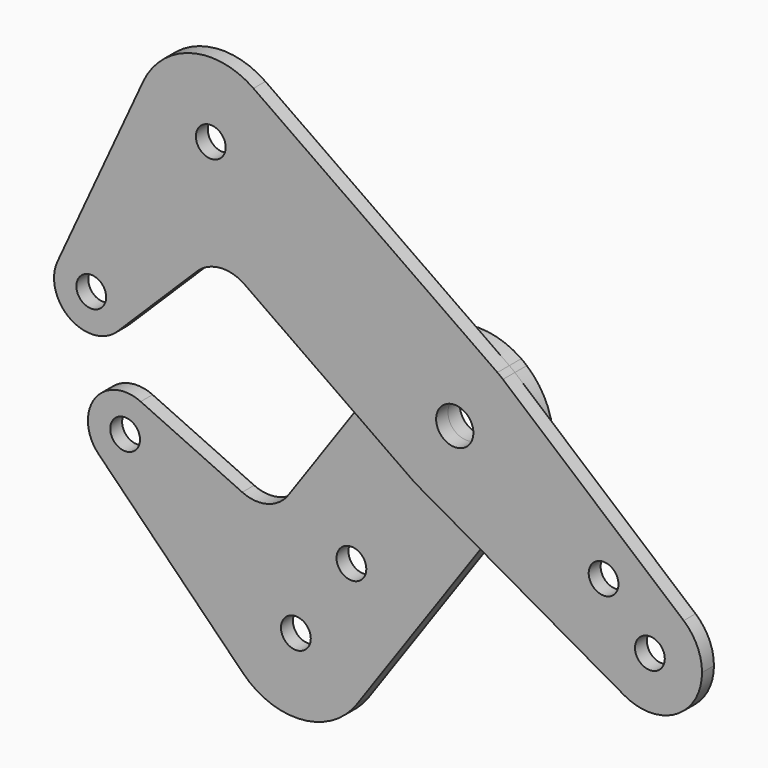
from build123d import *

# Parameters (mm, degrees)
F0_R     = 3.175
F0_R_2   = 3.9751
F1_DEPTH = 3.175
F2_DEPTH = 3.175


with BuildPart() as f1:
    # F0 (on Front) → F1 (new body)
    with BuildSketch(Plane.XZ):
        with BuildLine():
            ThreePointArc((-84.7225957339, 3.3175070304), (-75.813562918, 7.753739787), (-69.5741281599, 0))
            ThreePointArc((-69.5741281599, 0), (-70.1857405485, -3.0553685466), (-71.9263239282, -5.6398832336))
            Line((-71.9263239282, -5.6398832336), (-54.9834726478, 11.1390065117))
            ThreePointArc((-54.9834726478, 11.1390065117), (-50.0634331266, 13.4116607243), (-44.8300915991, 12.0031570794))
            Line((-44.8300915991, 12.0031570794), (-22.109021455, -3.9015920215))
            Line((-22.109021455, -3.9015920215), (-13.0053067382, 9.1037147168))
            ThreePointArc((-13.0053067382, 9.1037147168), (-2.7588421758, 15.6334389962), (9.1037147168, 13.0053067382))
            Line((9.1037147168, 13.0053067382), (-42.9175122362, 49.4201656053))
            ThreePointArc((-42.9175122362, 49.4201656053), (-37.940440467, 43.7460986623), (-36.146226953, 36.4148588671))
            ThreePointArc((-36.146226953, 36.4148588671), (-55.4173574367, 20.9073792931), (-66.443162101, 43.0498729278))
            Line((-66.443162101, 43.0498729278), (-84.7225957339, 3.3175070304))
        make_face()
        with BuildLine():
            Line((48.8149887222, -20.6656985075), (10.2828672843, 12.094555197))
            ThreePointArc((10.2828672843, 12.094555197), (14.4093050342, 6.6623984743), (15.875, 0))
            ThreePointArc((15.875, 0), (15.1405889824, -4.772650235), (13.0053067382, -9.1037147168))
            Line((13.0053067382, -9.1037147168), (4.7185685764, -20.9419120908))
            Line((4.7185685764, -20.9419120908), (36.1259209119, -38.7929382364))
            ThreePointArc((36.1259209119, -38.7929382364), (32.5132668456, -22.7592867919), (48.8149887222, -20.6656985075))
        make_face()
        with Locations((31.7433526867, -18.3447654727)):
            Circle(F0_R, mode=Mode.SUBTRACT)
        with BuildLine():
            ThreePointArc((10.2828672843, 12.094555197), (9.7039815289, 12.5637720246), (9.1037147168, 13.0053067382))
            ThreePointArc((9.1037147168, 13.0053067382), (-2.7588421758, 15.6334389962), (-13.0053067382, 9.1037147168))
            ThreePointArc((-13.0053067382, 9.1037147168), (-15.6334389962, -2.7588421758), (-9.1037147168, -13.0053067382))
            ThreePointArc((-9.1037147168, -13.0053067382), (-8.4833893845, -13.4181865224), (-7.8443723578, -13.8015016325))
            ThreePointArc((-7.8443723578, -13.8015016325), (3.48942852, -15.4867528425), (13.0053067382, -9.1037147168))
            ThreePointArc((13.0053067382, -9.1037147168), (15.1405889824, -4.772650235), (15.875, 0))
            ThreePointArc((15.875, 0), (14.4093050342, 6.6623984743), (10.2828672843, 12.094555197))
        make_face()
        Circle(F0_R_2, mode=Mode.SUBTRACT)
        with BuildLine():
            ThreePointArc((13.0053067382, -9.1037147168), (3.48942852, -15.4867528425), (-7.8443723578, -13.8015016325))
            Line((-7.8443723578, -13.8015016325), (4.7185685764, -20.9419120908))
            Line((4.7185685764, -20.9419120908), (13.0053067382, -9.1037147168))
        make_face()
        with BuildLine():
            Line((-13.0053067382, 9.1037147168), (-22.109021455, -3.9015920215))
            Line((-22.109021455, -3.9015920215), (-9.1037147168, -13.0053067382))
            ThreePointArc((-9.1037147168, -13.0053067382), (-15.6334389962, -2.7588421758), (-13.0053067382, 9.1037147168))
        make_face()
        with BuildLine():
            ThreePointArc((-42.9175122362, 49.4201656053), (-56.1704466794, 51.7380308841), (-66.443162101, 43.0498729278))
            ThreePointArc((-66.443162101, 43.0498729278), (-55.4173574367, 20.9073792931), (-36.146226953, 36.4148588671))
            ThreePointArc((-36.146226953, 36.4148588671), (-37.940440467, 43.7460986623), (-42.9175122362, 49.4201656053))
        make_face()
        with Locations((-52.021226953, 36.4148588671)):
            Circle(F0_R, mode=Mode.SUBTRACT)
        with BuildLine():
            ThreePointArc((-71.9263239282, -5.6398832336), (-70.1857405485, -3.0553685466), (-69.5741281599, 0))
            ThreePointArc((-69.5741281599, 0), (-75.813562918, 7.753739787), (-84.7225957339, 3.3175070304))
            ThreePointArc((-84.7225957339, 3.3175070304), (-82.0634855183, -6.5026533691), (-71.9263239282, -5.6398832336))
        make_face()
        with Locations((-77.5116281599, 0)):
            Circle(F0_R, mode=Mode.SUBTRACT)
        with BuildLine():
            ThreePointArc((52.7294815624, -29.1318870937), (51.7034951031, -24.4682081979), (48.8149887222, -20.6656985075))
            ThreePointArc((48.8149887222, -20.6656985075), (32.5132668456, -22.7592867919), (36.1259209119, -38.7929382364))
            ThreePointArc((36.1259209119, -38.7929382364), (47.2057311887, -38.7367574137), (52.7294815624, -29.1318870937))
        make_face()
        with Locations((41.6169815624, -29.1318870937)):
            Circle(F0_R, mode=Mode.SUBTRACT)
    extrude(amount=F1_DEPTH)


with BuildPart() as f2:
    # F0 (on Front) → F2 (new body)
    with BuildSketch(Plane.XZ):
        with BuildLine():
            Line((-9.1037147168, -13.0053067382), (-22.109021455, -3.9015920215))
            Line((-22.109021455, -3.9015920215), (-38.0137705559, -26.6226621656))
            ThreePointArc((-38.0137705559, -26.6226621656), (-42.4488989314, -29.7373663816), (-47.849643212, -29.2860269576))
            Line((-47.849643212, -29.2860269576), (-69.5122107038, -19.319858172))
            ThreePointArc((-69.5122107038, -19.319858172), (-66.1462823038, -22.2488172105), (-64.8922177341, -26.530825746))
            ThreePointArc((-64.8922177341, -26.530825746), (-69.8100047442, -33.8714823725), (-78.4696009678, -32.1161299777))
            Line((-78.4696009678, -32.1161299777), (-47.6946253343, -63.1918354164))
            ThreePointArc((-47.6946253343, -63.1918354164), (-42.4542848469, -37.3399136999), (-20.5398588671, -52.021226953))
            ThreePointArc((-20.5398588671, -52.021226953), (-21.2742698846, -56.7938771879), (-23.4095521288, -61.1249416697))
            Line((-23.4095521288, -61.1249416697), (4.7185685764, -20.9419120908))
            Line((4.7185685764, -20.9419120908), (-7.8443723578, -13.8015016325))
            ThreePointArc((-7.8443723578, -13.8015016325), (-8.4833893845, -13.4181865224), (-9.1037147168, -13.0053067382))
        make_face()
        with Locations((-24.5727467635, -35.1039239479)):
            Circle(F0_R, mode=Mode.SUBTRACT)
        with BuildLine():
            ThreePointArc((-47.6946253343, -63.1918354164), (-35.06861047, -67.8390409692), (-23.4095521288, -61.1249416697))
            ThreePointArc((-23.4095521288, -61.1249416697), (-21.2742698846, -56.7938771879), (-20.5398588671, -52.021226953))
            ThreePointArc((-20.5398588671, -52.021226953), (-42.4542848469, -37.3399136999), (-47.6946253343, -63.1918354164))
        make_face()
        with Locations((-36.4148588671, -52.021226953)):
            Circle(F0_R, mode=Mode.SUBTRACT)
        with BuildLine():
            ThreePointArc((-64.8922177341, -26.530825746), (-66.1462823038, -22.2488172105), (-69.5122107038, -19.319858172))
            ThreePointArc((-69.5122107038, -19.319858172), (-79.3323711033, -21.9789683876), (-78.4696009678, -32.1161299777))
            ThreePointArc((-78.4696009678, -32.1161299777), (-69.8100047442, -33.8714823725), (-64.8922177341, -26.530825746))
        make_face()
        with Locations((-72.8297177341, -26.530825746)):
            Circle(F0_R, mode=Mode.SUBTRACT)
        with BuildLine():
            Line((-13.0053067382, 9.1037147168), (-22.109021455, -3.9015920215))
            Line((-22.109021455, -3.9015920215), (-9.1037147168, -13.0053067382))
            ThreePointArc((-9.1037147168, -13.0053067382), (-15.6334389962, -2.7588421758), (-13.0053067382, 9.1037147168))
        make_face()
        with BuildLine():
            ThreePointArc((13.0053067382, -9.1037147168), (3.48942852, -15.4867528425), (-7.8443723578, -13.8015016325))
            Line((-7.8443723578, -13.8015016325), (4.7185685764, -20.9419120908))
            Line((4.7185685764, -20.9419120908), (13.0053067382, -9.1037147168))
        make_face()
        with BuildLine():
            ThreePointArc((10.2828672843, 12.094555197), (9.7039815289, 12.5637720246), (9.1037147168, 13.0053067382))
            ThreePointArc((9.1037147168, 13.0053067382), (-2.7588421758, 15.6334389962), (-13.0053067382, 9.1037147168))
            ThreePointArc((-13.0053067382, 9.1037147168), (-15.6334389962, -2.7588421758), (-9.1037147168, -13.0053067382))
            ThreePointArc((-9.1037147168, -13.0053067382), (-8.4833893845, -13.4181865224), (-7.8443723578, -13.8015016325))
            ThreePointArc((-7.8443723578, -13.8015016325), (3.48942852, -15.4867528425), (13.0053067382, -9.1037147168))
            ThreePointArc((13.0053067382, -9.1037147168), (15.1405889824, -4.772650235), (15.875, 0))
            ThreePointArc((15.875, 0), (14.4093050342, 6.6623984743), (10.2828672843, 12.094555197))
        make_face()
        Circle(F0_R_2, mode=Mode.SUBTRACT)
    extrude(amount=-F2_DEPTH)


solid = Compound([f1.part, f2.part])
